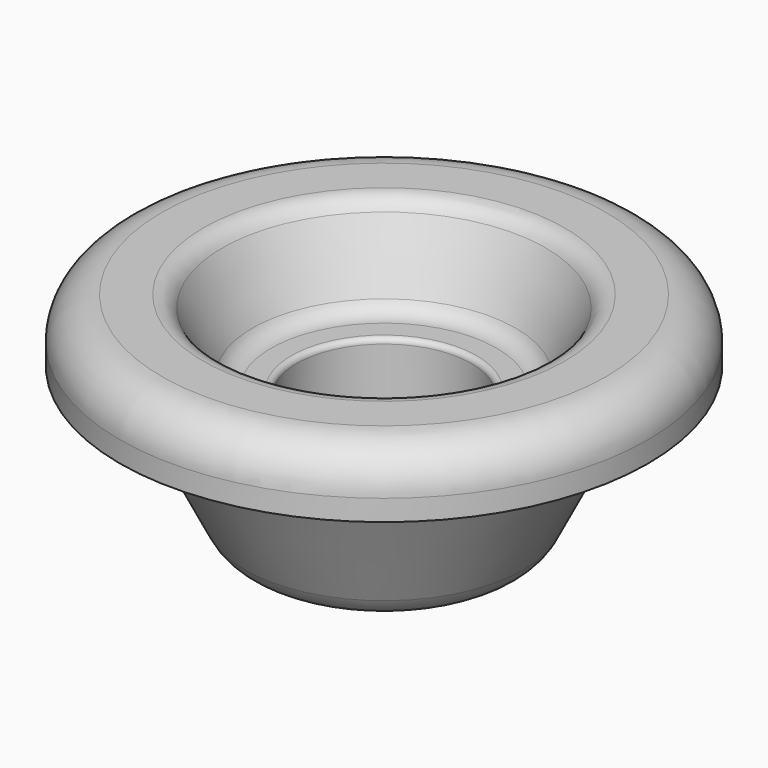
from build123d import *


with BuildPart() as f1:
    # F0 (on Front) → F1 (revolve)
    with BuildSketch(Plane.XZ):
        with BuildLine():
            Line((6.835097, 0), (5.6134, 0))
            ThreePointArc((5.6134, 0), (5.388894, -0.092994), (5.2959, -0.3175))
            Line((5.2959, -0.3175), (5.2959, -6.0325))
            ThreePointArc((5.2959, -6.0325), (5.202906, -6.257006), (4.9784, -6.35))
            Line((4.9784, -6.35), (3.175, -6.35))
            Line((3.175, -6.35), (3.175, -8.255))
            Line((3.175, -8.255), (6.182403, -8.255))
            ThreePointArc((6.182403, -8.255), (7.51776, -7.875653), (8.454248, -6.850923))
            Line((8.454248, -6.850923), (12.16369, 0.567961))
            ThreePointArc((12.16369, 0.567961), (12.631934, 1.080327), (13.299613, 1.27))
            Line((13.299613, 1.27), (16.002, 1.27))
            Line((16.002, 1.27), (16.002, 2.54))
            ThreePointArc((16.002, 2.54), (15.258051, 4.336051), (13.462, 5.08))
            Line((13.462, 5.08), (10.944903, 5.08))
            ThreePointArc((10.944903, 5.08), (10.277225, 4.890327), (9.808981, 4.377961))
            Line((9.808981, 4.377961), (7.971019, 0.702039))
            ThreePointArc((7.971019, 0.702039), (7.502775, 0.189673), (6.835097, 0))
        make_face()
    revolve(axis=Axis((0, 0, 5.523293), (0, 0, 1)))


solid = f1.part
